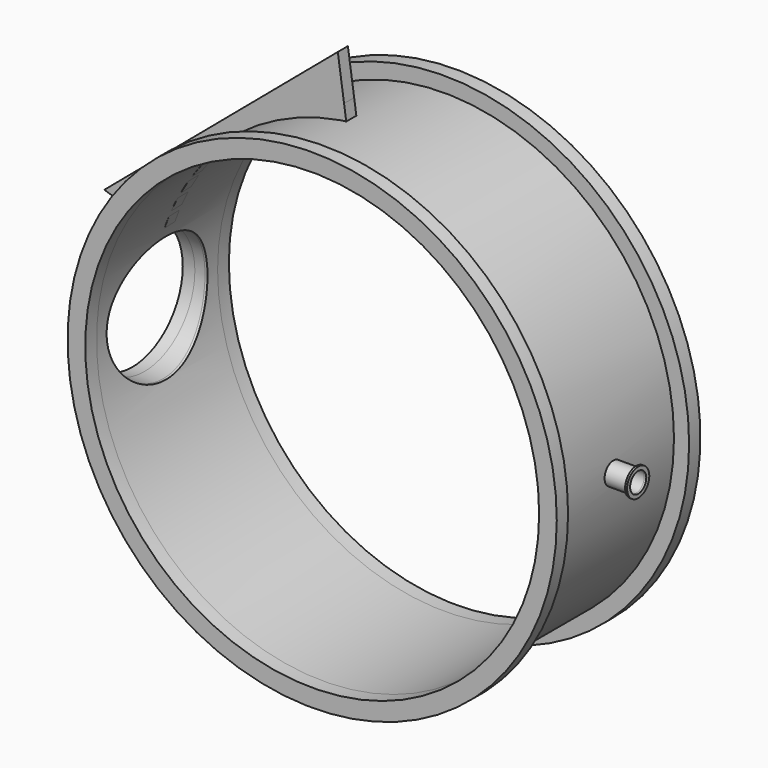
from build123d import *

# Parameters (mm, degrees)
F0_R      = 455
F0_R_2    = 450
F1_DEPTH  = 150
F2_R      = 485
F2_R_2    = 455
F2_R_3    = 450
F3_DEPTH  = 28
F4_R      = 485
F4_R_2    = 455
F4_R_3    = 450
F5_DEPTH  = 28
F7_R      = 22
F7_R_2    = 20
F8_DEPTH  = 45.532179457
F9_REACH  = 1041.5695424949
F11_R     = 127
F11_R_2   = 125
F13_REACH = 1328.5543906933
F11_R_3   = 152.5
F14_DEPTH = 24
F7_R_3    = 27.5
F15_DEPTH = 4
F17_DEPTH = 12.5


with BuildPart() as f1:
    # F0 (on Front) → F1 (new body, symmetric)
    with BuildSketch(Plane.XZ):
        Circle(F0_R)
        Circle(F0_R_2, mode=Mode.SUBTRACT)
    extrude(amount=F1_DEPTH, both=True)

    # F2 (on face) → F3 (join)
    with BuildSketch(Plane(origin=(0, 150, 0), x_dir=(-1, 0, 0), z_dir=(0, 1, 0))):
        Circle(F2_R)
        Circle(F2_R_2, mode=Mode.SUBTRACT)
        Circle(F2_R_2)
        Circle(F2_R_3, mode=Mode.SUBTRACT)
    extrude(amount=F3_DEPTH)

    # F4 (on face) → F5 (join)
    with BuildSketch(Plane.XZ.offset(150)):
        Circle(F4_R)
        Circle(F4_R_2, mode=Mode.SUBTRACT)
        Circle(F4_R_2)
        Circle(F4_R_3, mode=Mode.SUBTRACT)
    extrude(amount=F5_DEPTH)

    # F7 (on offset) → F8 (join, through all)
    with BuildSketch(Plane.YZ.offset(500)):
        Circle(F7_R)
        Circle(F7_R_2, mode=Mode.SUBTRACT)
    extrude(amount=-F8_DEPTH)

    f9_end = f1.faces().sort_by_distance((-450, 0, 0))[0]
    # F7 (on offset) → F9 (cut, up to a face of the model that its end follows)
    with BuildSketch(Plane.YZ.offset(500)):
        Circle(F7_R_2)
    f9_long = extrude(amount=-F9_REACH, mode=Mode.PRIVATE)
    add(split(f9_long, bisect_by=f9_end, keep=Keep.ALL, mode=Mode.PRIVATE).solids().sort_by_distance((500, 0, 0))[0], mode=Mode.SUBTRACT)

    # F11 (on offset) → F12 (join, up to the next surface of F1)
    with BuildSketch(Plane.YZ.offset(-475)):
        Circle(F11_R)
        Circle(F11_R_2, mode=Mode.SUBTRACT)
    extrude(until=Until.NEXT)

    f13_end = f1.faces().sort_by_distance((-450, 0, 0))[0]
    # F11 (on offset) → F13 (cut, up to a face of the model that its end follows)
    with BuildSketch(Plane.YZ.offset(-475)):
        Circle(F11_R_2)
    f13_long = extrude(amount=F13_REACH, mode=Mode.PRIVATE)
    add(split(f13_long, bisect_by=f13_end, keep=Keep.BOTTOM, mode=Mode.PRIVATE), mode=Mode.SUBTRACT)

    # F11 (on offset) → F14 (join)
    with BuildSketch(Plane.YZ.offset(-475)):
        Circle(F11_R_3)
        Circle(F11_R, mode=Mode.SUBTRACT)
        Circle(F11_R)
        Circle(F11_R_2, mode=Mode.SUBTRACT)
    extrude(amount=-F14_DEPTH)

    # F7 (on offset) → F15 (join)
    with BuildSketch(Plane.YZ.offset(500)):
        Circle(F7_R_3)
        Circle(F7_R, mode=Mode.SUBTRACT)
        Circle(F7_R)
        Circle(F7_R_2, mode=Mode.SUBTRACT)
    extrude(amount=F15_DEPTH)


with BuildPart() as f17:
    # F16 (on Front) → F17 (new body, symmetric)
    with BuildSketch(Plane.XZ):
        with BuildLine():
            Line((-81.575987868, 566.0536310474), (-313.0510903458, 370.4375991086))
            Line((-313.0510903458, 370.4375991086), (-544.5261928236, 174.8215671697))
            Line((-544.5261928236, 174.8215671697), (-475, 152.5))
            Line((-475, 152.5), (-428.459753627, 137.5581314276))
            ThreePointArc((-428.459753627, 137.5581314276), (-290.4597745476, 343.7049888636), (-64.1879640033, 445.3985914629))
            Line((-64.1879640033, 445.3985914629), (-69.1803612035, 480.0407041322))
            Line((-69.1803612035, 480.0407041322), (-81.575987868, 566.0536310474))
        make_face()
    extrude(amount=F17_DEPTH, both=True)


solid = Compound([f1.part, f17.part])
